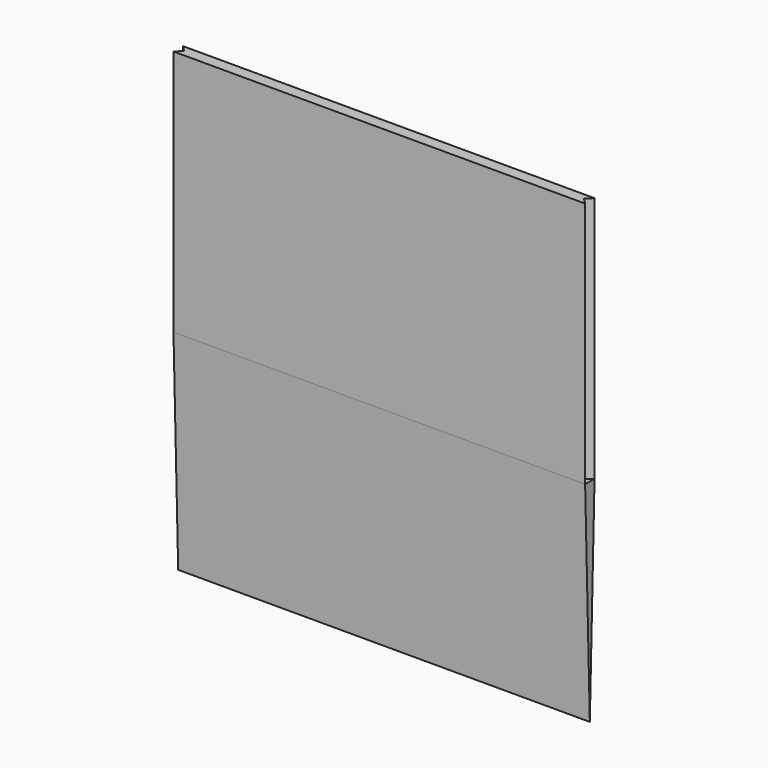
from build123d import *

# Parameters (mm, degrees)
F1_DEPTH = 533.4
F3_DEPTH = 889


with BuildPart() as f1:
    # F0 (on Top) → F1 (new body)
    with BuildSketch(Plane.XY):
        Polygon((127, 25.4), (0, 25.4), (12.699998, 12.7), (-4e-06, 0), (888.999996, 0), (876.299996, 12.7), (888.999996, 25.4), align=None)
    extrude(amount=-F1_DEPTH)


with BuildPart() as f3:
    # F2 (on Right) → F3 (new body)
    with BuildSketch(Plane.YZ):
        Polygon((25.4, -533.400118), (0, -533.400118), (12.7, -990.600118), align=None)
        Polygon((25.4, -533.400118), (0, -533.400118), (12.7, -990.600118), align=None)
    extrude(amount=F3_DEPTH)


solid = Compound([f1.part, f3.part])
